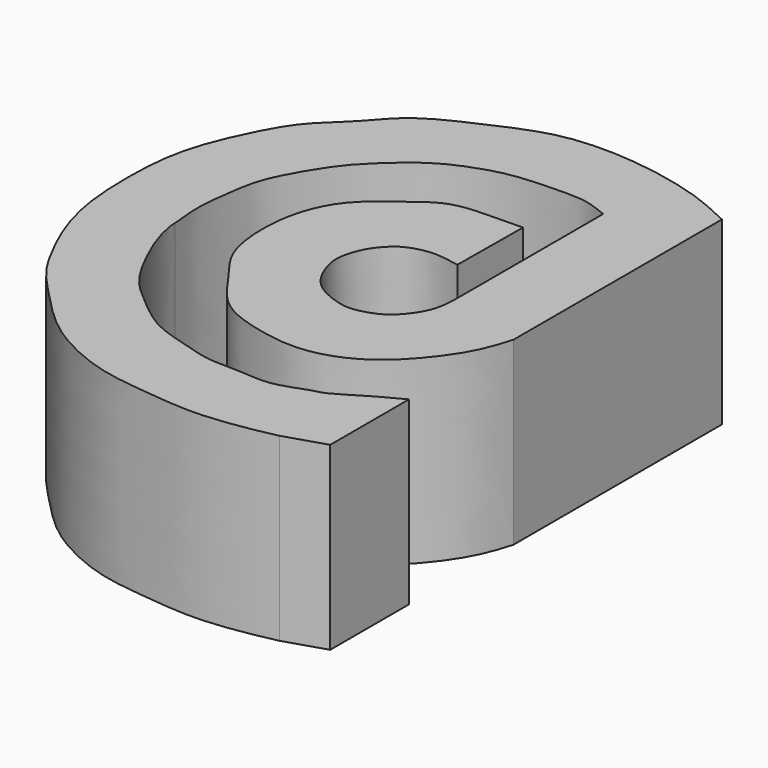
from build123d import *

# Parameters (mm, degrees)
F1_DEPTH = 3.7846


with BuildPart() as f1:
    # F0 (on Top) → F1 (new body)
    with BuildSketch(Plane.XY):
        with BuildLine():
            Line((23.389229551, 24.9238498509), (23.4036557376, 26.6265720129))
            add(Edge.make_bspline(
                [(23.4036557376, 26.6265720129), (23.1620881071, 26.6217645965), (22.6729455749, 26.6120302136), (21.8724675497, 26.5937664452), (21.2054083802, 26.029304716), (20.5530668667, 25.5638755763), (20.1362450914, 24.721979279), (20.0681646182, 23.6845315734), (20.2468938689, 22.8420918689), (20.7778944257, 22.2234973792), (21.2923604404, 21.3771323033), (22.3709466473, 21.044980876), (23.2921294982, 20.9330707021), (24.1891802735, 21.2298332191), (24.8791679075, 21.7892196563), (25.5459582277, 22.6792562936), (25.6980602097, 23.1914954349), (25.7674064487, 23.4250351787)],
                knots=[0, 0, 0, 0, 0.06068542, 0.1228799568, 0.1879237424, 0.2511205946, 0.3184749216, 0.3906161034, 0.4552194221, 0.5184776897, 0.5877658892, 0.6614403836, 0.7298064205, 0.7968255921, 0.863868284, 0.9379349146, 1, 1, 1, 1], degree=3))
            Line((25.7674064487, 23.4250351787), (25.7674064487, 28.8855992258))
            add(Edge.make_bspline(
                [(25.7674064487, 28.8855992258), (25.4895001711, 29.0174161901), (24.8949279117, 29.2994346857), (23.6758779608, 29.5732654091), (22.6333320587, 29.6464097499), (21.6575957773, 29.5492803193), (20.6133175541, 29.0853940954), (19.4809899899, 28.5701790893), (18.9631220763, 27.8674566013), (18.2825299275, 27.3055934879), (17.8306373771, 26.5217817875), (17.2953599858, 25.2987505848), (17.2185443447, 24.0504635435), (17.2709145733, 22.8252303822), (17.5778575563, 21.7685903001), (18.1612755322, 20.641808614), (18.5581571476, 20.2055165386), (19.3949372702, 19.3084310213), (20.1252640219, 18.7786485824), (21.1692627246, 18.3263903792), (22.2045985393, 18.2216615533), (23.2105640141, 18.1043589909), (24.2044288802, 18.2188852322), (24.6816837285, 18.3215169692), (24.8997006565, 18.3684006333)],
                knots=[0, 0, 0, 0, 0.0437912606, 0.0936901066, 0.1395184517, 0.183113788, 0.2311966198, 0.2806996832, 0.3221029367, 0.3632482483, 0.4056964603, 0.4570215945, 0.5073034917, 0.5562815022, 0.6039604176, 0.6531805544, 0.6883078627, 0.7367747833, 0.7801988598, 0.8271116912, 0.8728396685, 0.9180120266, 0.9625467061, 1, 1, 1, 1], degree=3))
            add(Edge.make_bspline(
                [(24.8997006565, 18.3684006333), (25.1839489986, 18.4581633657), (25.4681973408, 18.5479260981), (25.7524456829, 18.6376888305)],
                knots=[0, 0, 0, 0, 0.8942539981, 0.8942539981, 0.8942539981, 0.8942539981], degree=3))
            Line((25.7524456829, 18.6376888305), (25.7524456829, 20.7022316754))
            add(Edge.make_bspline(
                [(25.7524456829, 20.7022316754), (25.5818695478, 20.6153091753), (25.2198415435, 20.4308262925), (24.5285080743, 19.9808312722), (24.3207403399, 19.9781030834), (23.629679074, 19.6708064491), (23.0332535938, 19.7668348223), (22.2646073484, 19.7358968351), (21.7624471569, 19.9235637198), (20.9068697022, 20.1162059435), (20.2135959196, 20.708602205), (19.6262587802, 21.1911246059), (19.1736007718, 22.0745075635), (18.952730486, 22.6246680906), (18.8596265703, 23.0151732963), (18.8556779176, 23.19361642)],
                knots=[0, 0, 0, 0, 0.0746398843, 0.1576096398, 0.201525682, 0.2797308207, 0.3552006096, 0.4357972839, 0.5049844105, 0.591815371, 0.6811244828, 0.7638164206, 0.8562461655, 0.9298081122, 1, 1, 1, 1], degree=3))
            add(Edge.make_bspline(
                [(18.8556779176, 23.19361642), (18.8315175769, 23.4220546796), (18.7850819583, 23.8611077561), (18.8534664096, 24.4166509714), (18.9396163024, 25.0634753292), (19.1161719487, 25.5388315432), (19.5773118587, 26.3413072444), (19.9911376607, 26.8147082681), (20.6453504111, 27.402591076), (21.2126263194, 27.7087952011), (21.947112989, 27.9553001338), (22.5830852505, 28.0132105039), (23.1841238474, 28.0273569915), (23.6515387542, 28.0136249065), (23.9673901647, 27.8867418069), (24.1291299462, 27.8217680752)],
                knots=[0, 0, 0, 0, 0.078457214, 0.1507929592, 0.2267932061, 0.2962567959, 0.3869892718, 0.4652244255, 0.5535802557, 0.631597515, 0.7150565824, 0.7924500793, 0.8663395069, 0.9315557308, 1, 1, 1, 1], degree=3))
            Line((24.1291299462, 27.8217680752), (24.1291299462, 24.193296209))
            add(Edge.make_bspline(
                [(24.1291299462, 24.193296209), (24.1305652089, 24.1124982985), (24.1338521514, 23.9274603306), (24.1037522413, 23.4841399698), (23.8974756361, 23.1129332849), (23.6078108026, 22.8098917127), (23.3253456407, 22.6894236012), (22.9850730509, 22.6015664326), (22.687503101, 22.6543315779), (22.2883694923, 22.8022537366), (21.9797168439, 23.0559865764), (21.7747772295, 23.4506898067), (21.6731295637, 23.8805522025), (21.7976839346, 24.2802280141), (21.9227655937, 24.5179587438), (22.1829451288, 24.8219267081), (22.5162683823, 24.9597419425), (22.8848764597, 25.0203987358), (23.2115819951, 24.9578571242), (23.389229551, 24.9238498509)],
                knots=[0, 0, 0, 0, 0.0490039975, 0.1122256758, 0.1750643365, 0.2361272051, 0.289187485, 0.3448176147, 0.3973845678, 0.4592974142, 0.5195211907, 0.5828144289, 0.6463175498, 0.7068017771, 0.7568563366, 0.8162543274, 0.8733044657, 0.9311087522, 1, 1, 1, 1], degree=3))
        make_face()
    extrude(amount=F1_DEPTH)


solid = f1.part
